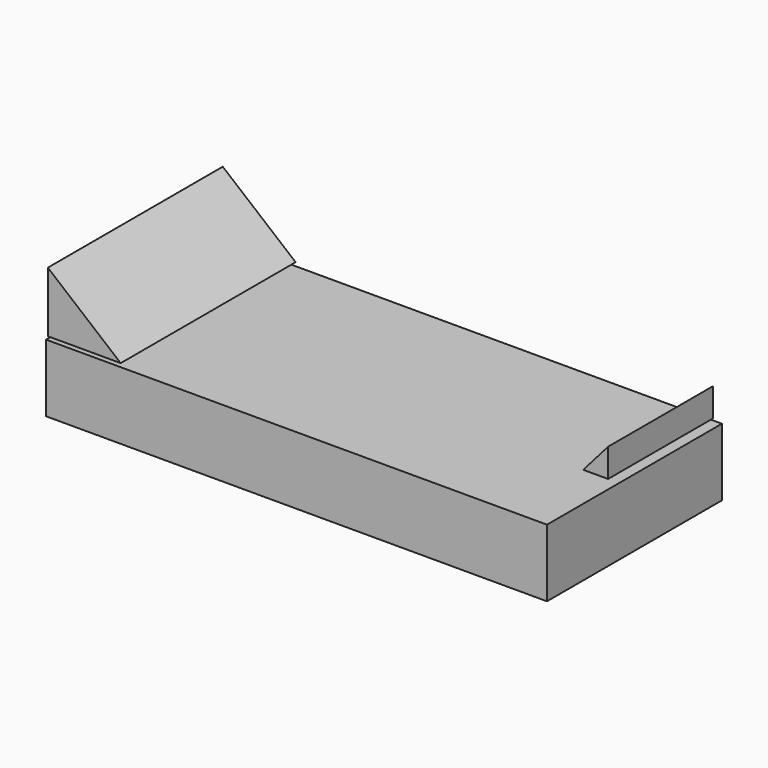
from build123d import *

# Parameters (mm, degrees)
F0_W     = 87.283641
F0_H     = 11.761624
F3_DEPTH = 38.1
F4_DEPTH = 38.1
F5_DEPTH = 22.86


with BuildPart() as f3:
    # F0 (on Front) → F3 (new body)
    with BuildSketch(Plane.XZ):
        with Locations((-5.88081, -44.106094)):
            Rectangle(F0_W, F0_H)
    extrude(amount=F3_DEPTH)


with BuildPart() as f4:
    # F1 (on Front) → F4 (new body)
    with BuildSketch(Plane.XZ):
        Polygon((-36.52294, -37.606247), (-49.213115, -27.082689), (-49.213115, -37.606247), align=None)
    extrude(amount=F4_DEPTH)


with BuildPart() as f5:
    # F2 (on Front) → F5 (new body)
    with BuildSketch(Plane.XZ):
        Polygon((36.213428, -32.963499), (31.880192, -37.915763), (36.213428, -37.915763), align=None)
    extrude(amount=F5_DEPTH)


solid = Compound([f3.part, f4.part, f5.part])
